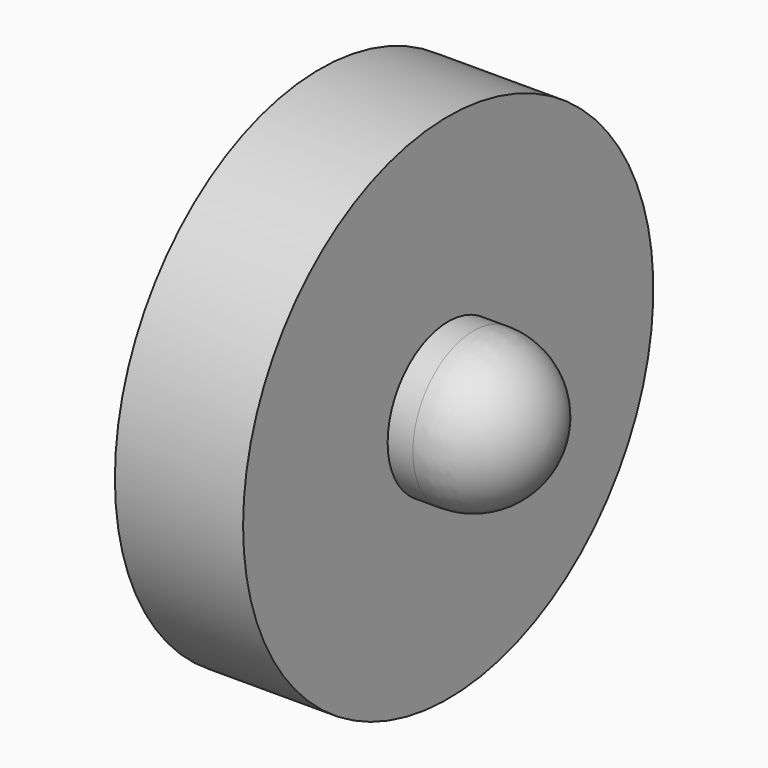
from build123d import *


with BuildPart() as f1:
    # F0 (on Top) → F1 (revolve)
    with BuildSketch(Plane.XY):
        with BuildLine():
            Line((0, 0), (0, -2.54))
            Line((0, -2.54), (1.27, -2.54))
            Line((1.27, -2.54), (1.27, -0.75))
            Line((1.27, -0.75), (1.52, -0.75))
            ThreePointArc((1.52, -0.75), (2.05033, -0.53033), (2.27, 0))
            Line((2.27, 0), (0, 0))
        make_face()
    revolve(axis=Axis((1.135, 0, 0), (1, 0, 0)))


solid = f1.part
